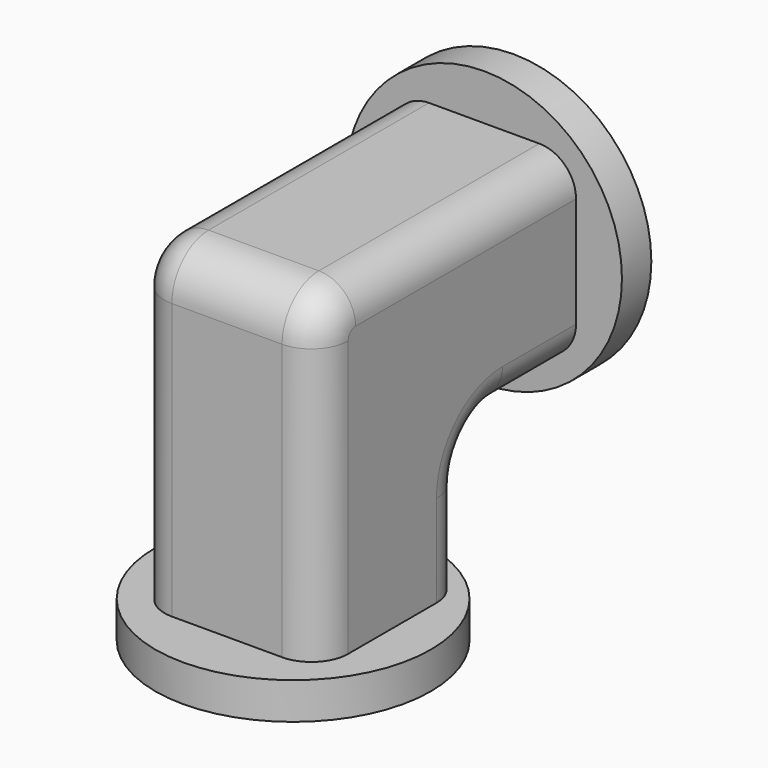
from build123d import *

# Parameters (mm, degrees)
F0_R     = 19.05
F1_DEPTH = 5.08
F3_DEPTH = 12.7
F4_R     = 5.08
F5_R     = 19.05
F6_DEPTH = 5.08


with BuildPart() as f1:
    # F0 (on Front) → F1 (new body)
    with BuildSketch(Plane.XZ):
        Circle(F0_R)
    extrude(amount=F1_DEPTH)

    # F2 (on Right) → F3 (join, symmetric)
    with BuildSketch(Plane.YZ):
        with BuildLine():
            Line((-5.08, -12.7), (-5.08, 12.7))
            Line((-5.08, 12.7), (-43.18, 12.7))
            ThreePointArc((-43.18, 12.7), (-47.670128, 10.840128), (-49.53, 6.35))
            Line((-49.53, 6.35), (-49.53, -12.7))
            Line((-49.53, -12.7), (-49.53, -31.75))
            Line((-49.53, -31.75), (-24.13, -31.75))
            Line((-24.13, -31.75), (-24.13, -19.05))
            ThreePointArc((-24.13, -19.05), (-22.270128, -14.559872), (-17.78, -12.7))
            Line((-17.78, -12.7), (-5.08, -12.7))
        make_face()
    extrude(amount=F3_DEPTH, both=True)

    # F4
    f4_edges = [f1.edges().sort_by_distance(p)[0] for p in [
        (-12.7, -24.13, 12.7),
        (12.7, -24.13, 12.7),
        (12.7, -11.43, -12.7),
        (-12.7, -24.13, -25.4),
    ]]
    fillet(f4_edges, radius=F4_R)

    # F5 (on face) → F6 (join)
    with BuildSketch(Plane(origin=(0, 0, -31.75), x_dir=(1, 0, 0), z_dir=(0, 0, -1))):
        with Locations((0, 38.1)):
            Circle(F5_R)
    extrude(amount=F6_DEPTH)


solid = f1.part
